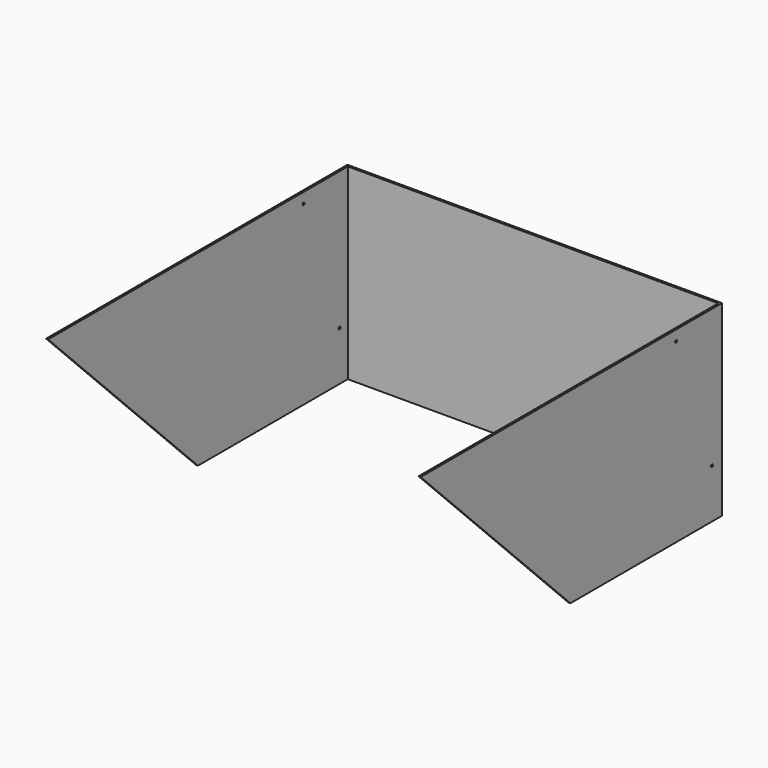
from build123d import *

# Parameters (mm, degrees)
F0_W     = 1800
F0_H     = 900
F1_DEPTH = 5
F2_W     = 10
F2_H     = 900
F3_DEPTH = 1800
F5_DEPTH = 1800.001
F7_D     = 12


with BuildPart() as f1:
    # F0 (on Front) → F1 (new body, symmetric)
    with BuildSketch(Plane.XZ):
        Rectangle(F0_W, F0_H)
    extrude(amount=F1_DEPTH, both=True)

    # F2 (on face) → F3 (join)
    with BuildSketch(Plane.XZ.offset(5)):
        with Locations((-895, 0)):
            Rectangle(F2_W, F2_H)
        with Locations((895, 0)):
            Rectangle(F2_W, F2_H)
    extrude(amount=F3_DEPTH)

    # F4 (on face) → F5 (cut, through all)
    with BuildSketch(Plane.YZ.offset(900)):
        Polygon((-905, -450), (-1805, 450), (-1805, -450), align=None)
    extrude(amount=-F5_DEPTH, mode=Mode.SUBTRACT)

    # F7 (through all)
    with Locations(Plane(origin=(-900, 0, 0), x_dir=(0, -1, 0), z_dir=(-1, 0, 0))):
        with Locations((270, 400), (55, -213.412585)):
            Hole(F7_D / 2)


solid = f1.part
